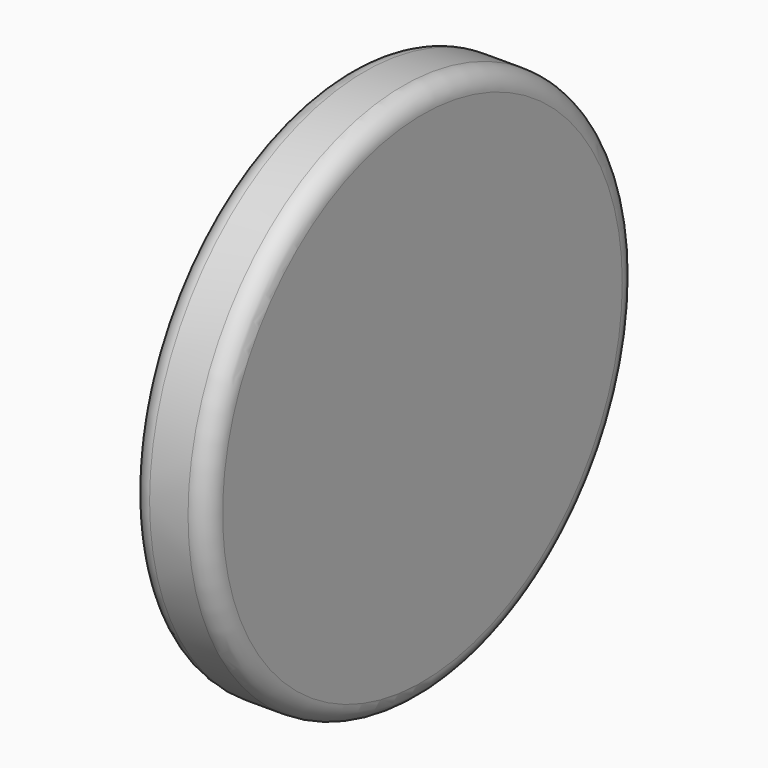
from build123d import *

# Parameters (mm, degrees)
F0_R     = 7
F0_R_2   = 2.4
F1_DEPTH = 2
F2_DEPTH = 3
F3_R     = 0.5


with BuildPart() as f1:
    # F0 (on Right) → F1 (new body)
    with BuildSketch(Plane.YZ):
        Circle(F0_R)
        Circle(F0_R_2, mode=Mode.SUBTRACT)
        Circle(F0_R_2)
    extrude(amount=F1_DEPTH)

    # F0 (on Right) → F2 (join)
    with BuildSketch(Plane.YZ):
        Circle(F0_R_2)
    extrude(amount=-F2_DEPTH)

    # F3
    f3_edges = [f1.edges().sort_by_distance(p)[0] for p in [
        (2, -7, 0),
        (-3, -2.4, 0),
        (0, -7, 0),
    ]]
    fillet(f3_edges, radius=F3_R)


solid = f1.part
